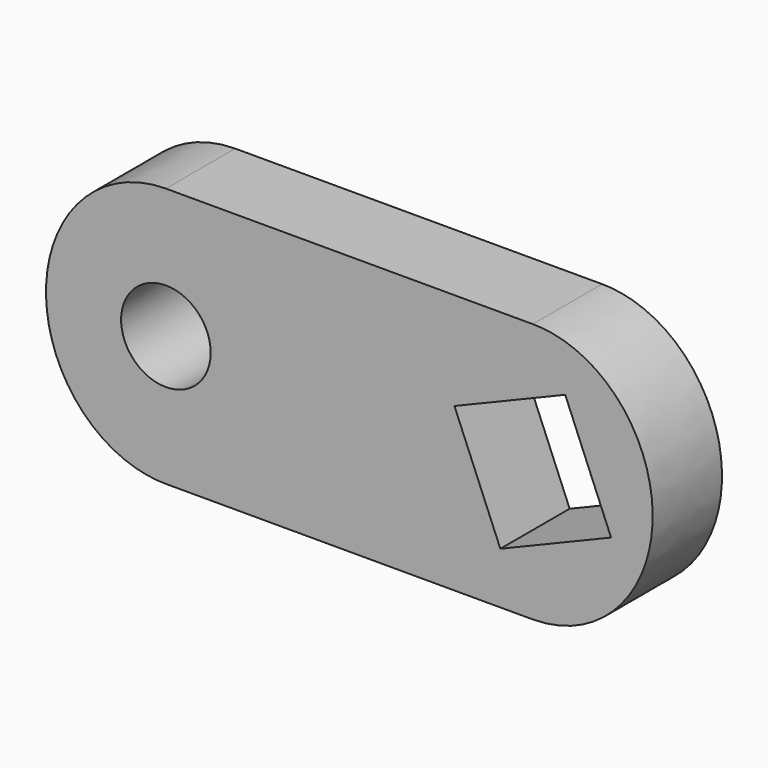
from build123d import *

# Parameters (mm, degrees)
F0_R     = 15.5
F1_DEPTH = 30


with BuildPart() as f1:
    # F0 (on Front) → F1 (new body)
    with BuildSketch(Plane.XZ):
        with BuildLine():
            Line((86.9763747505, 45), (-40.0236252495, 45))
            add(Edge.make_bspline(
                [(-40.0236252495, 45), (-81.5236252495, 45), (-81.5236252495, 0), (-81.5236252495, -45), (-40.0236252495, -45)],
                knots=[0, 0, 0, 1.5707963268, 1.5707963268, 3.1415926536, 3.1415926536, 3.1415926536], degree=2, weights=[1, 0.7071067812, 1, 0.7071067812, 1]))
            Line((-40.0236252495, -45), (86.9763747505, -45))
            add(Edge.make_bspline(
                [(86.9763747505, -45), (128.4763747505, -45), (128.4763747505, 0), (128.4763747505, 45), (86.9763747505, 45)],
                knots=[3.1415926536, 3.1415926536, 3.1415926536, 4.7123889804, 4.7123889804, 6.2831853072, 6.2831853072, 6.2831853072], degree=2, weights=[1, 0.7071067812, 1, 0.7071067812, 1]))
        make_face()
        with Locations((-40.0236252495, 0)):
            Circle(F0_R, mode=Mode.SUBTRACT)
        Polygon((75.7465556724, -27.1111815212), (64.5167365944, 0), (59.8651932293, 11.229819078), (98.2061938285, 27.1111815212), (114.0875562716, -11.229819078), align=None, mode=Mode.SUBTRACT)
    extrude(amount=F1_DEPTH)


solid = f1.part
